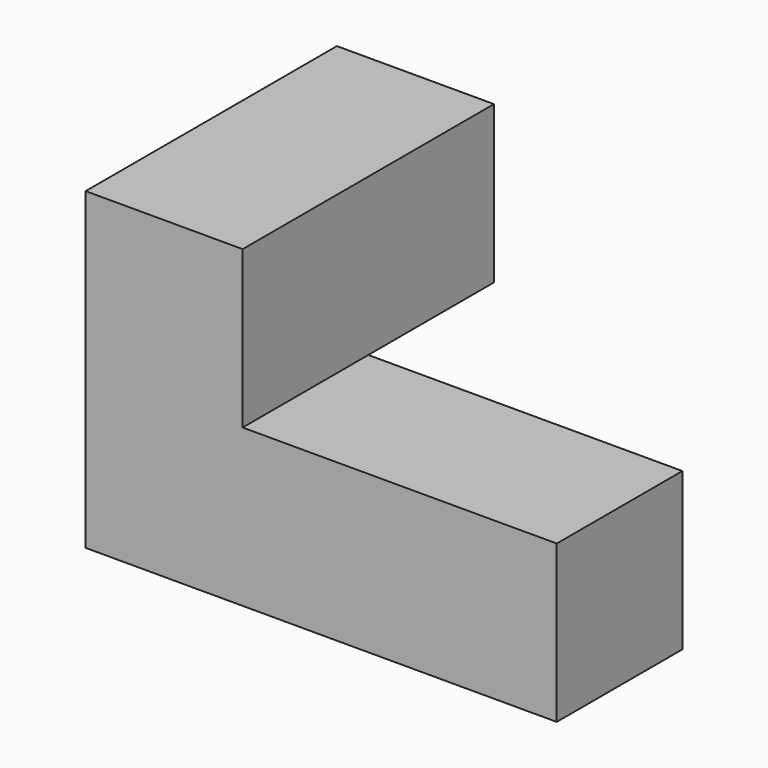
from build123d import *

# Parameters (mm, degrees)
F0_W     = 20
F0_H     = 20
F1_DEPTH = 40
F2_W     = 20
F2_H     = 20
F3_DEPTH = 20
F4_W     = 20
F4_H     = 20
F5_DEPTH = 40


with BuildPart() as f1:
    # F0 (on Front) → F1 (new body)
    with BuildSketch(Plane.XZ):
        with Locations((10, 10)):
            Rectangle(F0_W, F0_H)
    extrude(amount=F1_DEPTH)

    # F2 (on face) → F3 (join)
    with BuildSketch(Plane(origin=(0, 0, 0), x_dir=(1, 0, 0), z_dir=(0, 0, -1))):
        with Locations((10, 30)):
            Rectangle(F2_W, F2_H)
    extrude(amount=F3_DEPTH)

    # F4 (on face) → F5 (join)
    with BuildSketch(Plane.YZ.offset(20)):
        with Locations((-30, -10)):
            Rectangle(F4_W, F4_H)
    extrude(amount=F5_DEPTH)


solid = f1.part
